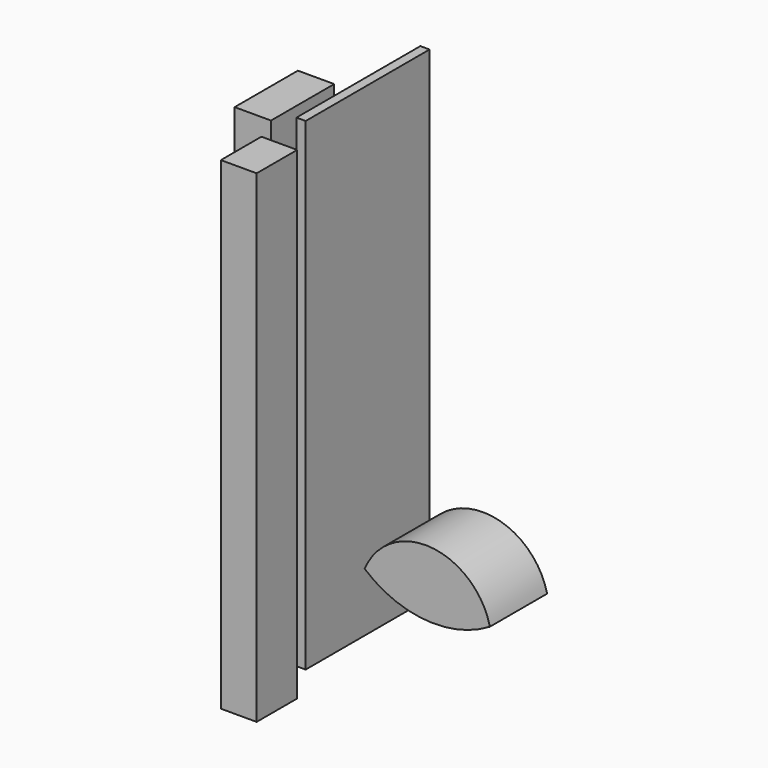
from build123d import *

# Parameters (mm, degrees)
F1_DEPTH = 31.9517180324
F2_W     = 16.2296146154
F2_H     = 35.2809950709
F3_DEPTH = 215.6650107354
F2_W_2   = 1.59111619
F2_H_2   = 0.5565434694
F2_W_3   = 15.9789174795
F2_H_3   = 22.6231738925


with BuildPart() as f1:
    # F0 (on Front) → F1 (new body)
    with BuildSketch(Plane.XZ):
        with BuildLine():
            ThreePointArc((45.4666044703, 33.9075185045), (19.1708433519, 56.5603457269), (-10.4582310831, 38.4845170573))
            ThreePointArc((-10.4582310831, 38.4845170573), (16.7663369063, 27.1804746164), (45.4666044703, 33.9075185045))
        make_face()
    extrude(amount=F1_DEPTH)


with BuildPart() as f3:
    # F2 (on Top) → F3 (new body)
    with BuildSketch(Plane.XY):
        with Locations((-42.9266318679, -36.1494235694)):
            Rectangle(F2_W, F2_H)
        with Locations((-42.9266318679, -36.1494235694)):
            Rectangle(F2_W, F2_H)
    extrude(amount=F3_DEPTH)


with BuildPart() as f3b:
    # F2 (on Top) → F3, piece 2 (new body)
    with BuildSketch(Plane.XY):
        with Locations((-25.9531736374, 9.9924132228)):
            Rectangle(F2_W_2, F2_H_2)
        Polygon((-25.1576155424, 9.7141414881), (-26.7487317324, 9.7141414881), (-26.7487317324, 10.2706849575), (-25.1576155424, 10.2706849575), (-25.1576155424, 22.6467847824), (-29.2692780495, 22.6467847824), (-29.2692780495, -46.5068370104), (-25.1576155424, -46.5068370104), align=None)
    extrude(amount=F3_DEPTH)


with BuildPart() as f3c:
    # F2 (on Top) → F3, piece 3 (new body)
    with BuildSketch(Plane.XY):
        with Locations((-21.8176469207, -76.7201073468)):
            Rectangle(F2_W_3, F2_H_3)
    extrude(amount=F3_DEPTH)


solid = Compound([f1.part, f3.part, f3b.part, f3c.part])
